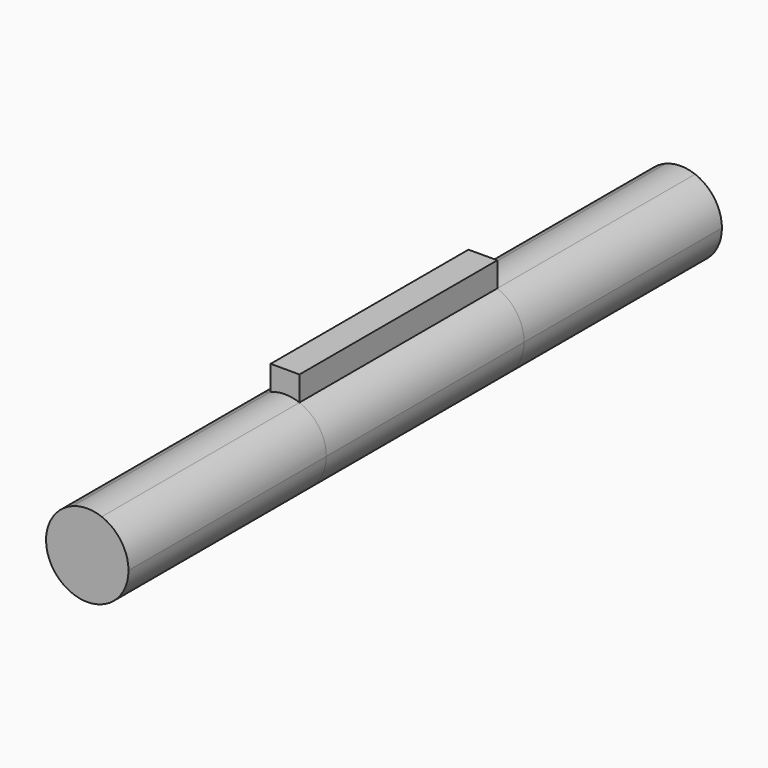
from build123d import *

# Parameters (mm, degrees)
F1_DEPTH      = 76.2
F2_DEPTH      = 76.2
F2_DEPTH_BACK = 152.4


with BuildPart() as f1:
    # F0 (on Front) → F1 (new body)
    with BuildSketch(Plane.XZ):
        with BuildLine():
            ThreePointArc((-4.445, 11.8967211869), (-7.2401139494, -10.4341147205), (12.7, 0))
            ThreePointArc((12.7, 0), (10.4341147205, 7.2401139494), (4.445, 11.8967211869))
            ThreePointArc((4.445, 11.8967211869), (0, 12.7), (-4.445, 11.8967211869))
        make_face()
        with BuildLine():
            ThreePointArc((-4.445, 11.8967211869), (0, 12.7), (4.445, 11.8967211869))
            Line((4.445, 11.8967211869), (4.445, 19.5167211869))
            Line((4.445, 19.5167211869), (-4.445, 19.5167211869))
            Line((-4.445, 19.5167211869), (-4.445, 11.8967211869))
        make_face()
    extrude(amount=F1_DEPTH)

    # F0 (on Front) → F2 (join, two sides)
    with BuildSketch(Plane.XZ) as f2_sk:
        with BuildLine():
            ThreePointArc((-4.445, 11.8967211869), (-7.2401139494, -10.4341147205), (12.7, 0))
            ThreePointArc((12.7, 0), (10.4341147205, 7.2401139494), (4.445, 11.8967211869))
            ThreePointArc((4.445, 11.8967211869), (0, 12.7), (-4.445, 11.8967211869))
        make_face()
    extrude(amount=-F2_DEPTH)
    extrude(f2_sk.sketch, amount=F2_DEPTH_BACK)


solid = f1.part
